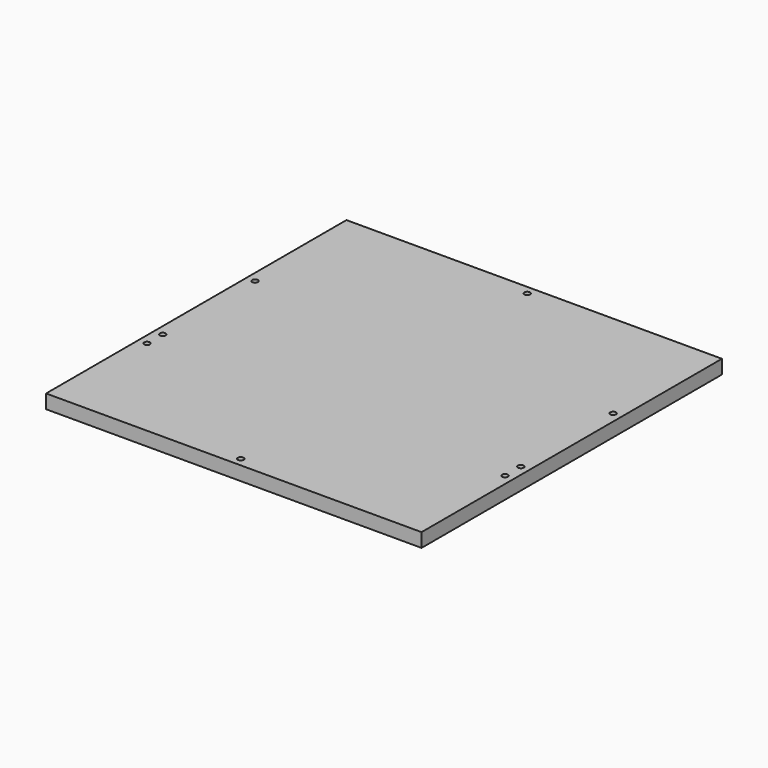
from build123d import *

# Parameters (mm, degrees)
SKETCH_W     = 324
SKETCH_H     = 324
PAD_DEPTH    = 12
SKETCH001_R  = 2.5
POCKET_DEPTH = 12.001


with BuildPart() as part:
    # Sketch → Pad (new body)
    with BuildSketch(Plane.XY):
        Rectangle(SKETCH_W, SKETCH_H)
    extrude(amount=PAD_DEPTH)

    # Sketch001 → Pocket (cut, through all)
    with BuildSketch(Plane.XY.offset(12)):
        with Locations((0, 154.5)):
            Circle(SKETCH001_R)
        with Locations((0, -154.5)):
            Circle(SKETCH001_R)
        with Locations((-154.5, 54)):
            Circle(SKETCH001_R)
        with Locations((154.5, 54)):
            Circle(SKETCH001_R)
        with Locations((154.5, -45.525002)):
            Circle(SKETCH001_R)
        with Locations((154.5, -62.475)):
            Circle(SKETCH001_R)
        with Locations((-154.5, -62.475)):
            Circle(SKETCH001_R)
        with Locations((-154.5, -45.525)):
            Circle(SKETCH001_R)
    extrude(amount=-POCKET_DEPTH, mode=Mode.SUBTRACT)


solid = part.part
